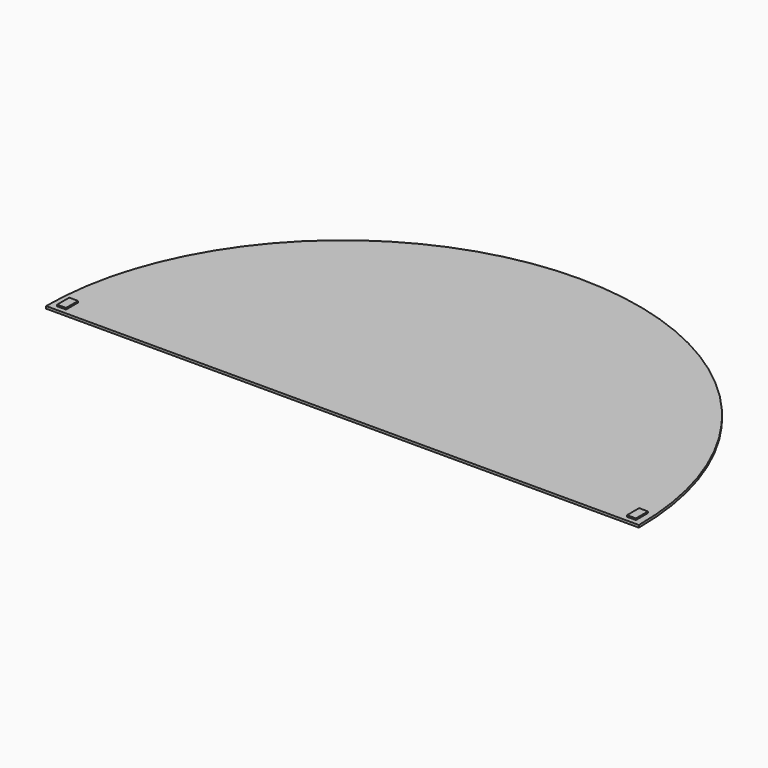
from build123d import *

# Parameters (mm, degrees)
F0_W     = 0.758968
F0_H     = 1.297592
F1_DEPTH = 0.2032
F2_DEPTH = 0.127


with BuildPart() as f1:
    # F0 (on Top) → F1 (new body)
    with BuildSketch(Plane.XY):
        with BuildLine():
            ThreePointArc((25.4, -6.303185), (0, 19.096815), (-25.4, -6.303185))
            Line((-25.4, -6.303185), (25.4, -6.303185))
        make_face()
        with Locations((-24.415575, -5.225981)):
            Rectangle(F0_W, F0_H, mode=Mode.SUBTRACT)
        with Locations((24.415575, -5.225981)):
            Rectangle(F0_W, F0_H, mode=Mode.SUBTRACT)
        with Locations((-24.415575, -5.225981)):
            Rectangle(F0_W, F0_H)
        with Locations((24.415575, -5.225981)):
            Rectangle(F0_W, F0_H)
    extrude(amount=-F1_DEPTH)

    # F0 (on Top) → F2 (join)
    with BuildSketch(Plane.XY):
        with Locations((-24.415575, -5.225981)):
            Rectangle(F0_W, F0_H)
        with Locations((24.415575, -5.225981)):
            Rectangle(F0_W, F0_H)
    extrude(amount=F2_DEPTH)


solid = f1.part
